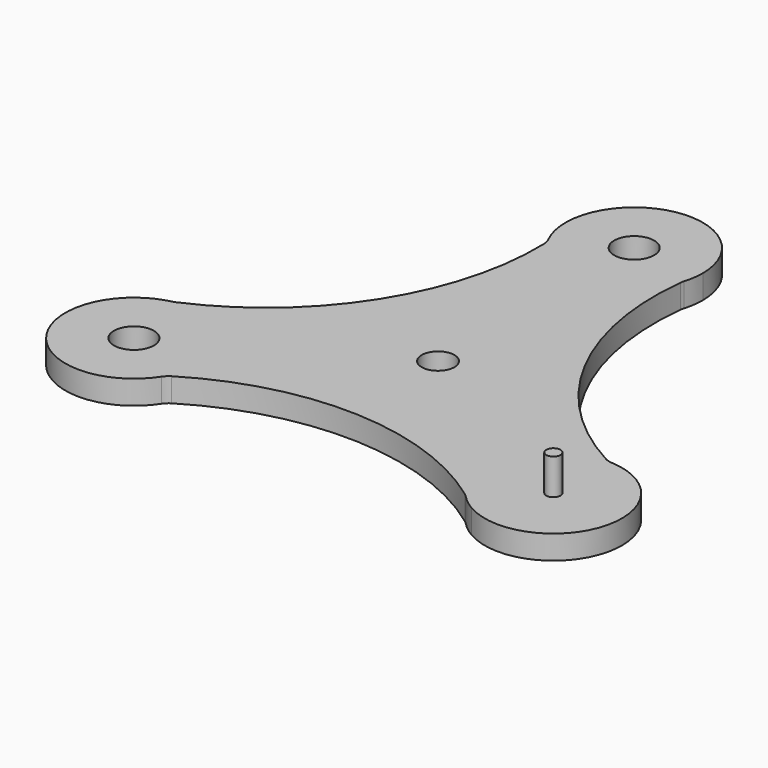
from build123d import *

# Parameters (mm, degrees)
F0_R     = 8.5
F0_R_2   = 6.985
F0_R_3   = 3.01878
F1_DEPTH = 10.16
F2_R     = 7.62
F3_DEPTH = 25.4


with BuildPart() as f1:
    # F0 (on Top) → F1 (new body)
    with BuildSketch(Plane.XY):
        with BuildLine():
            ThreePointArc((29.21, 104.385), (28.391776, 99.847507), (27.755027, 95.281012))
            ThreePointArc((27.755027, 95.281012), (28.843963, 99.77524), (29.21, 104.385))
        make_face()
        with BuildLine():
            ThreePointArc((89.287219, -21.055), (40.36409, 27.509427), (27.755027, 95.281012))
            ThreePointArc((27.755027, 95.281012), (28.391776, 99.847507), (29.21, 104.385))
            ThreePointArc((29.21, 104.385), (-7.560104, 132.599693), (-25.296602, 89.78))
            ThreePointArc((-25.296602, 89.78), (-42.893065, 23.129114), (-95.280447, -21.676448))
            ThreePointArc((-95.280447, -21.676448), (-99.553523, -23.408254), (-103.892219, -24.968398))
            ThreePointArc((-103.892219, -24.968398), (-109.941808, -70.919589), (-63.990617, -64.87))
            ThreePointArc((-63.990617, -64.87), (2.528975, -46.783541), (67.525421, -69.749564))
            ThreePointArc((67.525421, -69.749564), (71.161747, -72.584253), (74.682219, -75.561602))
            ThreePointArc((74.682219, -75.561602), (117.501913, -57.825104), (89.287219, -21.055))
        make_face()
        with Locations((-89.287219, -50.265)):
            Circle(F0_R, mode=Mode.SUBTRACT)
        Circle(F0_R_2, mode=Mode.SUBTRACT)
        with Locations((89.287219, -50.265)):
            Circle(F0_R_3, mode=Mode.SUBTRACT)
        with Locations((0, 104.385)):
            Circle(F0_R, mode=Mode.SUBTRACT)
        with BuildLine():
            ThreePointArc((67.525421, -69.749564), (70.873068, -72.939725), (74.682219, -75.561602))
            ThreePointArc((74.682219, -75.561602), (71.161747, -72.584253), (67.525421, -69.749564))
        make_face()
        with BuildLine():
            ThreePointArc((-103.892219, -24.968398), (-99.553523, -23.408254), (-95.280447, -21.676448))
            ThreePointArc((-95.280447, -21.676448), (-99.717031, -22.980515), (-103.892219, -24.968398))
        make_face()
    extrude(amount=F1_DEPTH)

    # F2
    f2_edges = [f1.edges().sort_by_distance(p)[0] for p in [
        (27.755027, 95.281012, 5.08),
        (-25.296602, 89.78, 5.08),
        (-63.990617, -64.87, 5.08),
        (-95.280447, -21.676448, 5.08),
        (67.525421, -69.749564, 5.08),
        (89.287219, -21.055, 5.08),
    ]]
    fillet(f2_edges, radius=F2_R)

    # F0 (on Top) → F3 (join)
    with BuildSketch(Plane.XY):
        with Locations((89.287219, -50.265)):
            Circle(F0_R_3)
    extrude(amount=F3_DEPTH)


solid = f1.part
